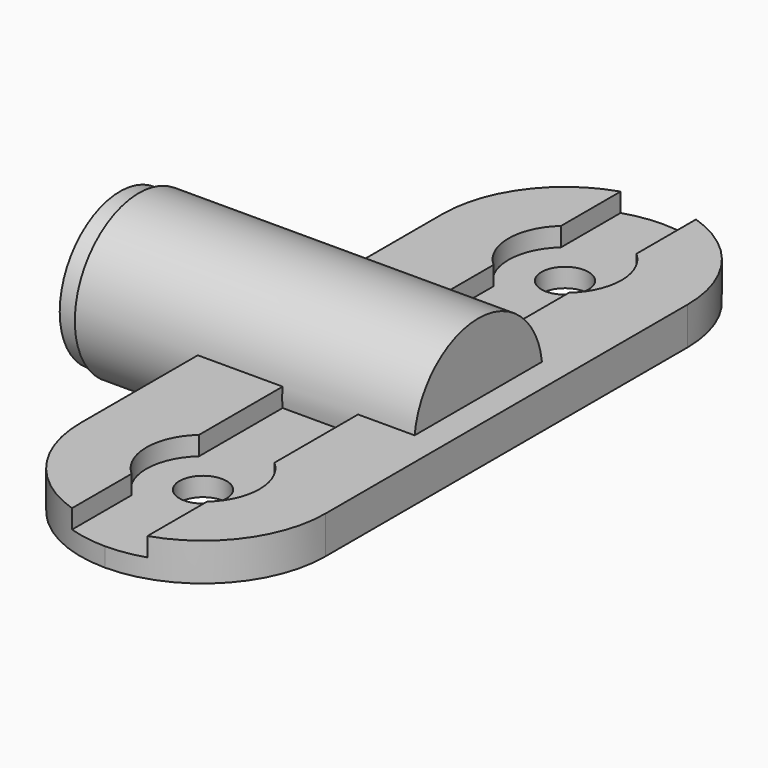
from build123d import *

# Parameters (mm, degrees)
F1_DEPTH  = 2
F2_W      = 4
F2_H      = 40.789261
F3_DEPTH  = 1
F5_R      = 4.25
F6_DEPTH  = 19
F7_R      = 4.394544
F7_R_2    = 4.25
F7_R_3    = 4
F8_DEPTH  = 1
F9_W      = 12
F9_H      = 12.99651
F10_DEPTH = 25
F11_R     = 3
F12_DEPTH = 1
F13_R     = 1.25
F14_DEPTH = 3.751
F15_R     = 1.25
F16_DEPTH = 3.751


with BuildPart() as f1:
    # F0 (on Top) → F1 (new body)
    with BuildSketch(Plane.XY):
        with BuildLine():
            ThreePointArc((0, 18.5), (-4.596194, 16.596194), (-6.5, 12))
            Line((-6.5, 12), (-6.5, -12))
            ThreePointArc((-6.5, -12), (-4.596194, -16.596194), (0, -18.5))
            ThreePointArc((0, -18.5), (4.596194, -16.596194), (6.5, -12))
            Line((6.5, -12), (6.5, 12))
            ThreePointArc((6.5, 12), (4.596194, 16.596194), (0, 18.5))
        make_face()
    extrude(amount=F1_DEPTH)

    # F2 (on face) → F3 (cut)
    with BuildSketch(Plane.XY.offset(2)):
        with Locations((0, 0.259061)):
            Rectangle(F2_W, F2_H)
    extrude(amount=-F3_DEPTH, mode=Mode.SUBTRACT)

    # F5 (on offset) → F6 (join)
    with BuildSketch(Plane.YZ.offset(-14)):
        with Locations((0, 1.5)):
            Circle(F5_R)
    extrude(amount=F6_DEPTH)

    # F7 (on face) → F8 (cut)
    with BuildSketch(Plane(origin=(-14, 0, 0), x_dir=(0, -1, 0), z_dir=(-1, 0, 0))):
        with Locations((0, 1.5)):
            Circle(F7_R)
        with Locations((0, 1.5)):
            Circle(F7_R_2, mode=Mode.SUBTRACT)
        with Locations((0, 1.5)):
            Circle(F7_R_2)
        with Locations((0, 1.5)):
            Circle(F7_R_3, mode=Mode.SUBTRACT)
    extrude(amount=-F8_DEPTH, mode=Mode.SUBTRACT)

    # F9 (on face) → F10 (cut)
    with BuildSketch(Plane(origin=(0, 0, 0), x_dir=(1, 0, 0), z_dir=(0, 0, -1))):
        with Locations((0.5, -0.554225)):
            Rectangle(F9_W, F9_H)
    extrude(amount=F10_DEPTH, mode=Mode.SUBTRACT)

    # F11 (on face) → F12 (cut, through all)
    with BuildSketch(Plane.XY.offset(1)):
        with Locations((0, -12)):
            Circle(F11_R)
        with Locations((0, 12)):
            Circle(F11_R)
    extrude(amount=F12_DEPTH, mode=Mode.SUBTRACT)

    # F13 (on face) → F14 (cut, through all)
    with BuildSketch(Plane.XY.offset(1)):
        with Locations((0, -12)):
            Circle(F13_R)
    extrude(amount=-F14_DEPTH, mode=Mode.SUBTRACT)

    # F15 (on face) → F16 (cut, through all)
    with BuildSketch(Plane.XY.offset(1)):
        with Locations((0, 12)):
            Circle(F15_R)
    extrude(amount=-F16_DEPTH, mode=Mode.SUBTRACT)


solid = f1.part
